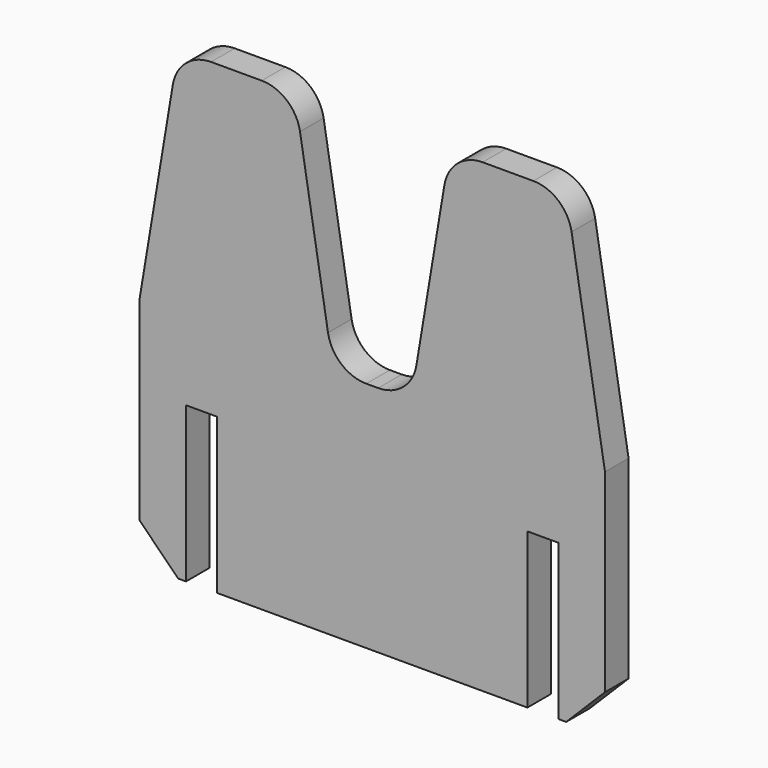
from build123d import *

# Parameters (mm, degrees)
F1_DEPTH = 9.5
F2_SIZE2 = 150
F2_SIZE  = 25
F3_SIZE2 = 150
F3_SIZE  = 25
F4_R     = 25
F5_SIZE  = 25


with BuildPart() as f1:
    # F0 (on Front) → F1 (new body, symmetric)
    with BuildSketch(Plane.XZ):
        Polygon((-50, 150), (-150, 150), (-150, -150), (-120, -150), (-120, -50), (-100, -50), (-100, -150), (0, -150), (100, -150), (100, -50), (120, -50), (120, -150), (150, -150), (150, 150), (50, 150), (25, 0), (0, 0), (-25, 0), align=None)
    extrude(amount=F1_DEPTH, both=True)

    # F2
    f2_edges = [f1.edges().sort_by_distance(p)[0] for p in [
        (150, 0, 150),
    ]]
    f2_side = f1.faces().sort_by_distance((100, 0, 150))[0]
    chamfer(f2_edges, length=F2_SIZE, length2=F2_SIZE2, reference=f2_side)

    # F3
    f3_edges = [f1.edges().sort_by_distance(p)[0] for p in [
        (-150, 0, 150),
    ]]
    f3_side = f1.faces().sort_by_distance((-100, 0, 150))[0]
    chamfer(f3_edges, length=F3_SIZE, length2=F3_SIZE2, reference=f3_side)

    # F4
    f4_edges = [f1.edges().sort_by_distance(p)[0] for p in [
        (-125, 0, 150),
        (-50, 0, 150),
        (50, 0, 150),
        (125, 0, 150),
        (25, 0, 0),
        (-25, 0, 0),
    ]]
    fillet(f4_edges, radius=F4_R)

    # F5
    f5_edges = [f1.edges().sort_by_distance(p)[0] for p in [
        (-150, 0, -150),
        (150, 0, -150),
    ]]
    chamfer(f5_edges, length=F5_SIZE)


solid = f1.part
